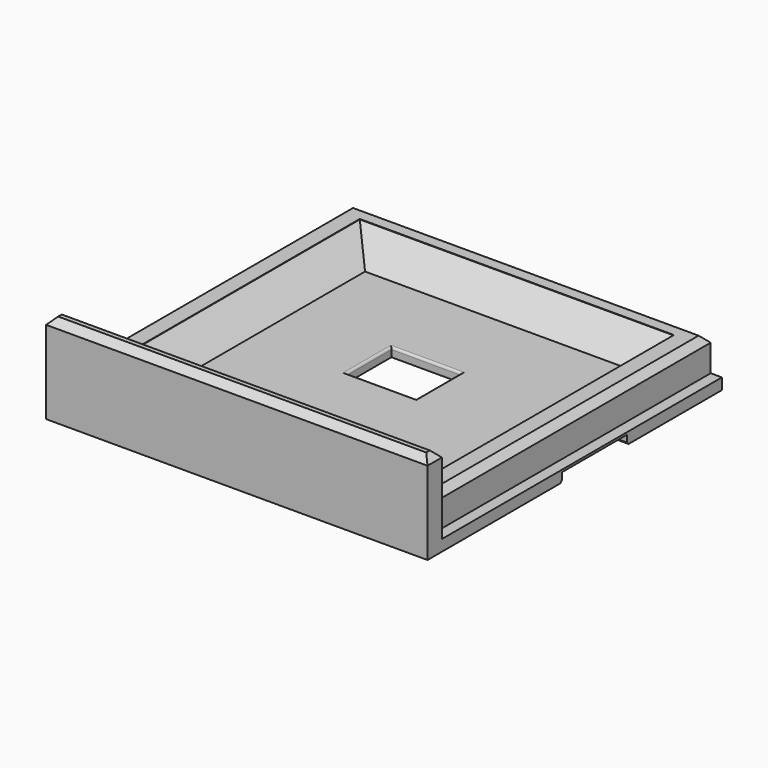
from build123d import *

# Parameters (mm, degrees)
PAD_DEPTH       = 156
SKETCH001_W     = 31
SKETCH001_H     = 25
POCKET_DEPTH    = 20.001
SKETCH002_W     = 170
SKETCH002_H     = 36
POCKET001_DEPTH = 4
SKETCH003_W     = 140
SKETCH003_H     = 140
POCKET002_DEPTH = 12
SKETCH004_W     = 170
SKETCH004_H     = 40
PAD001_DEPTH    = 8
FILLET_R        = 1
CHAMFER_SIZE    = 3
CHAMFER001_SIZE = 1
CHAMFER002_SIZE = 3
CHAMFER003_SIZE = 11.8


with BuildPart() as part:
    # Sketch → Pad (new body)
    with BuildSketch(Plane.XZ):
        Polygon((-80, 20), (-80, 5), (-85, 5), (-85, 0), (85, 0), (85, 5), (80, 5), (80, 20), align=None)
    extrude(amount=-PAD_DEPTH)

    # Sketch001 (on Face2 of Pad) → Pocket (cut, through all)
    with BuildSketch(Plane.XY.offset(20)):
        with Locations((0, 85)):
            Rectangle(SKETCH001_W, SKETCH001_H)
    extrude(amount=-POCKET_DEPTH, mode=Mode.SUBTRACT)

    # Sketch002 (on Face14 of Pocket) → Pocket001 (cut)
    with BuildSketch(Plane(origin=(0, 0, 0), x_dir=(1, 0, 0), z_dir=(0, 0, -1))):
        with Locations((0, -85)):
            Rectangle(SKETCH002_W, SKETCH002_H)
    extrude(amount=-POCKET001_DEPTH, mode=Mode.SUBTRACT)

    # Sketch003 (on Face3 of Pocket001) → Pocket002 (cut)
    with BuildSketch(Plane.XY.offset(20)):
        with Locations((0, 78)):
            Rectangle(SKETCH003_W, SKETCH003_H)
    extrude(amount=-POCKET002_DEPTH, mode=Mode.SUBTRACT)

    # Sketch004 (on Face4 of Pocket002) → Pad001 (join)
    with BuildSketch(Plane.XZ):
        with Locations((0, 20)):
            Rectangle(SKETCH004_W, SKETCH004_H)
    extrude(amount=PAD001_DEPTH)

    # Fillet
    fillet_edges = [part.edges().sort_by_distance(p)[0] for p in [
        (0, 72.5, 8),
        (-15.5, 85, 8),
        (0, 97.5, 8),
        (15.5, 85, 8),
    ]]
    fillet(fillet_edges, radius=FILLET_R)

    # Chamfer
    chamfer_edges = [part.edges().sort_by_distance(p)[0] for p in [
        (-80, 78, 20),
        (0, 156, 20),
        (80, 78, 20),
    ]]
    chamfer(chamfer_edges, length=CHAMFER_SIZE)

    # Chamfer001
    chamfer001_edges = [part.edges().sort_by_distance(p)[0] for p in [
        (0, 67, 0),
        (0, 103, 0),
    ]]
    chamfer(chamfer001_edges, length=CHAMFER001_SIZE)

    # Chamfer002
    chamfer002_edges = [part.edges().sort_by_distance(p)[0] for p in [
        (0, 0, 40),
        (85, -4, 40),
        (0, -8, 40),
        (-85, -4, 40),
    ]]
    chamfer(chamfer002_edges, length=CHAMFER002_SIZE)

    # Chamfer003
    chamfer003_edges = [part.edges().sort_by_distance(p)[0] for p in [
        (0, 148, 8),
        (-70, 78, 8),
        (70, 78, 8),
        (0, 8, 8),
    ]]
    chamfer(chamfer003_edges, length=CHAMFER003_SIZE)


solid = part.part
